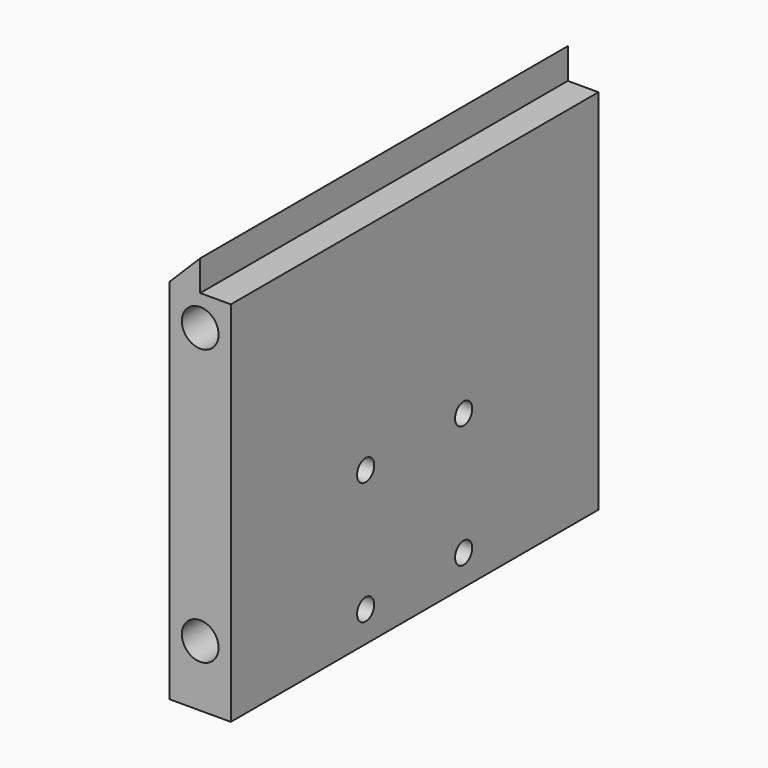
from build123d import *

# Parameters (mm, degrees)
F1_DEPTH  = 75
F3_R      = 1.75
F4_DEPTH  = 25
F6_R      = 3
F7_DEPTH  = 20
F8_R      = 3
F9_DEPTH  = 20
F10_R     = 3
F11_DEPTH = 20
F12_R     = 3
F13_DEPTH = 20
F2_R      = 2
F14_DEPTH = 10
F15_DEPTH = 25
F16_DEPTH = 25
F17_DEPTH = 25


with BuildPart() as f1:
    # F0 (on Front) → F1 (new body)
    with BuildSketch(Plane.XZ):
        Polygon((-5, 27.5), (-5, -32.5), (5, -32.5), (5, 27.5), (0, 27.5), (0, 32.5), align=None)
    extrude(amount=F1_DEPTH)

    # F3 (on face) → F4 (cut)
    with BuildSketch(Plane.YZ.offset(5)):
        with Locations((-27.5, -7.5)):
            Circle(F3_R)
        with Locations((-47.5, -7.5)):
            Circle(F3_R)
        with Locations((-27.5, -27.5)):
            Circle(F3_R)
        with Locations((-47.5, -27.5)):
            Circle(F3_R)
    extrude(amount=-F4_DEPTH, mode=Mode.SUBTRACT)

    # F6 (on face) → F7 (cut)
    with BuildSketch(Plane(origin=(0, 0, 0), x_dir=(-1, 0, 0), z_dir=(0, 1, 0))):
        with Locations((0, -22.5)):
            Circle(F6_R)
    extrude(amount=-F7_DEPTH, mode=Mode.SUBTRACT)

    # F8 (on face) → F9 (cut)
    with BuildSketch(Plane.XZ.offset(75)):
        with Locations((0, 22.5)):
            Circle(F8_R)
    extrude(amount=-F9_DEPTH, mode=Mode.SUBTRACT)

    # F10 (on face) → F11 (cut)
    with BuildSketch(Plane.XZ.offset(75)):
        with Locations((0, -22.5)):
            Circle(F10_R)
    extrude(amount=-F11_DEPTH, mode=Mode.SUBTRACT)

    # F12 (on face) → F13 (cut)
    with BuildSketch(Plane(origin=(0, 0, 0), x_dir=(-1, 0, 0), z_dir=(0, 1, 0))):
        with Locations((0, 22.5)):
            Circle(F12_R)
    extrude(amount=-F13_DEPTH, mode=Mode.SUBTRACT)

    # F2 (on face) → F14 (cut)
    with BuildSketch(Plane(origin=(0, 0, -32.5), x_dir=(1, 0, 0), z_dir=(0, 0, -1))):
        with Locations((-2.5, 37.5)):
            Circle(F2_R)
    extrude(amount=-F14_DEPTH, mode=Mode.SUBTRACT)

    # F3 (on face) → F15 (cut)
    with BuildSketch(Plane.YZ.offset(5)):
        with Locations((-27.5, -7.5)):
            Circle(F3_R)
        with Locations((-47.5, -7.5)):
            Circle(F3_R)
        with Locations((-27.5, -27.5)):
            Circle(F3_R)
        with Locations((-47.5, -27.5)):
            Circle(F3_R)
    extrude(amount=-F15_DEPTH, mode=Mode.SUBTRACT)

    # F3 (on face) → F16 (cut)
    with BuildSketch(Plane.YZ.offset(5)):
        with Locations((-27.5, -7.5)):
            Circle(F3_R)
        with Locations((-47.5, -7.5)):
            Circle(F3_R)
        with Locations((-27.5, -27.5)):
            Circle(F3_R)
        with Locations((-47.5, -27.5)):
            Circle(F3_R)
    extrude(amount=-F16_DEPTH, mode=Mode.SUBTRACT)

    # F3 (on face) → F17 (cut)
    with BuildSketch(Plane.YZ.offset(5)):
        with Locations((-27.5, -7.5)):
            Circle(F3_R)
        with Locations((-47.5, -7.5)):
            Circle(F3_R)
        with Locations((-27.5, -27.5)):
            Circle(F3_R)
        with Locations((-47.5, -27.5)):
            Circle(F3_R)
    extrude(amount=-F17_DEPTH, mode=Mode.SUBTRACT)


solid = f1.part
